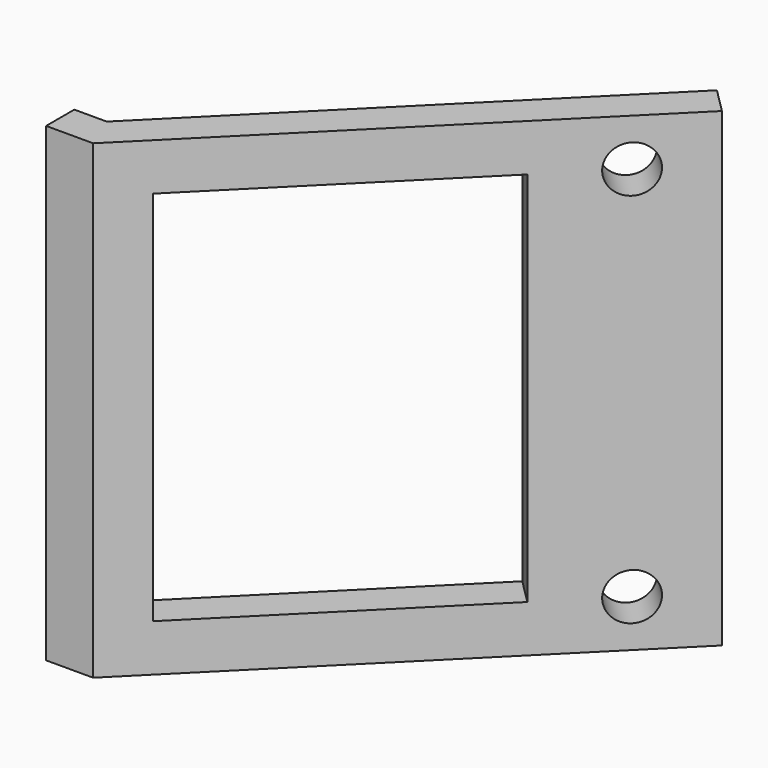
from build123d import *

# Parameters (mm, degrees)
PAD001_DEPTH    = 40
SKETCH002_R     = 2
POCKET_DEPTH    = 5
SKETCH003_W     = 14.874642
SKETCH003_H     = 51.167498
SKETCH003_W_2   = 25
SKETCH003_H_2   = 32
POCKET001_DEPTH = 5


with BuildPart() as part:
    # Sketch001 → Pad001 (new body)
    with BuildSketch(Plane.XY):
        Polygon((33.191021, 0), (65.010826, 31.819805), (62.889506, 33.941125), (31.948381, 3), (29.191021, 3), (29.191021, 0), align=None)
    extrude(amount=-PAD001_DEPTH)

    # Sketch002 → Pocket (cut)
    with BuildSketch(Plane(origin=(16.595511, -16.595511, 0), x_dir=(0.707107, 0.707107, 0), z_dir=(0.707107, -0.707107, 0))):
        with Locations((59.469596, -36)):
            Circle(SKETCH002_R)
        with Locations((59.469596, -4)):
            Circle(SKETCH002_R)
    extrude(amount=-POCKET_DEPTH, mode=Mode.SUBTRACT)

    # Sketch003 → Pocket001 (cut)
    with BuildSketch(Plane(origin=(16.595511, -16.595511, 0), x_dir=(0.707107, 0.707107, 0), z_dir=(0.707107, -0.707107, 0))):
        with Locations((72.906917, -16.654673)):
            Rectangle(SKETCH003_W, SKETCH003_H)
        with Locations((39.969596, -20)):
            Rectangle(SKETCH003_W_2, SKETCH003_H_2)
    extrude(amount=-POCKET001_DEPTH, mode=Mode.SUBTRACT)


solid = part.part
